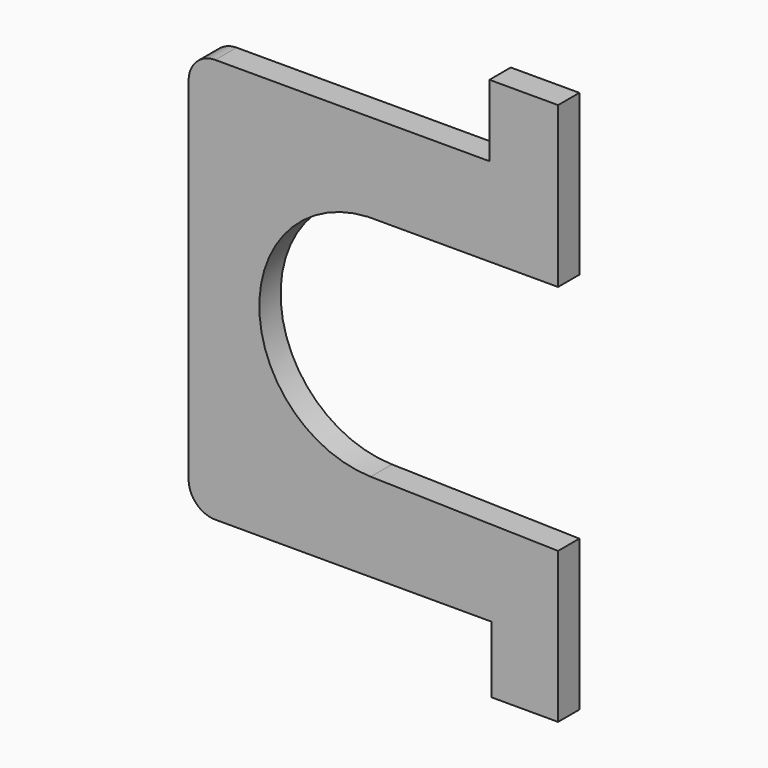
from build123d import *

# Parameters (mm, degrees)
F1_DEPTH = 25.4


with BuildPart() as f1:
    # F0 (on Front) → F1 (new body)
    with BuildSketch(Plane.XZ):
        with BuildLine():
            Line((-383.589327, 324.126521), (-645.086652, 324.126521))
            ThreePointArc((-645.086652, 324.126521), (-663.047164, 316.687033), (-670.486652, 298.726521))
            Line((-670.486652, 298.726521), (-670.486652, -36.439173))
            ThreePointArc((-670.486652, -36.439173), (-663.047164, -54.399685), (-645.086652, -61.839173))
            Line((-645.086652, -61.839173), (-381.685098, -61.839173))
            Line((-381.685098, -61.839173), (-381.685098, -125.339173))
            Line((-381.685098, -125.339173), (-318.185098, -125.339173))
            Line((-318.185098, -125.339173), (-318.185098, -61.839173))
            Line((-318.185098, -61.839173), (-318.185098, 18.231926))
            Line((-318.185098, 18.231926), (-496.885459, 22.422571))
            ThreePointArc((-496.885459, 22.422571), (-603.080172, 129.936874), (-499.297618, 239.781419))
            ThreePointArc((-499.297618, 239.781419), (-494.335875, 239.894667), (-489.374132, 239.781419))
            Line((-489.374132, 239.781419), (-318.185098, 239.781419))
            Line((-318.185098, 239.781419), (-318.185098, 324.126521))
            Line((-318.185098, 324.126521), (-318.185098, 327.941657))
            Line((-318.185098, 327.941657), (-318.185098, 392.482549))
            Line((-318.185098, 392.482549), (-383.589327, 392.482549))
            Line((-383.589327, 392.482549), (-383.589327, 327.941657))
            Line((-383.589327, 327.941657), (-383.589327, 324.126521))
        make_face()
        with BuildLine():
            Line((-499.297618, 239.781419), (-489.374132, 239.781419))
            ThreePointArc((-489.374132, 239.781419), (-494.335875, 239.894667), (-499.297618, 239.781419))
        make_face()
    extrude(amount=F1_DEPTH)


solid = f1.part
